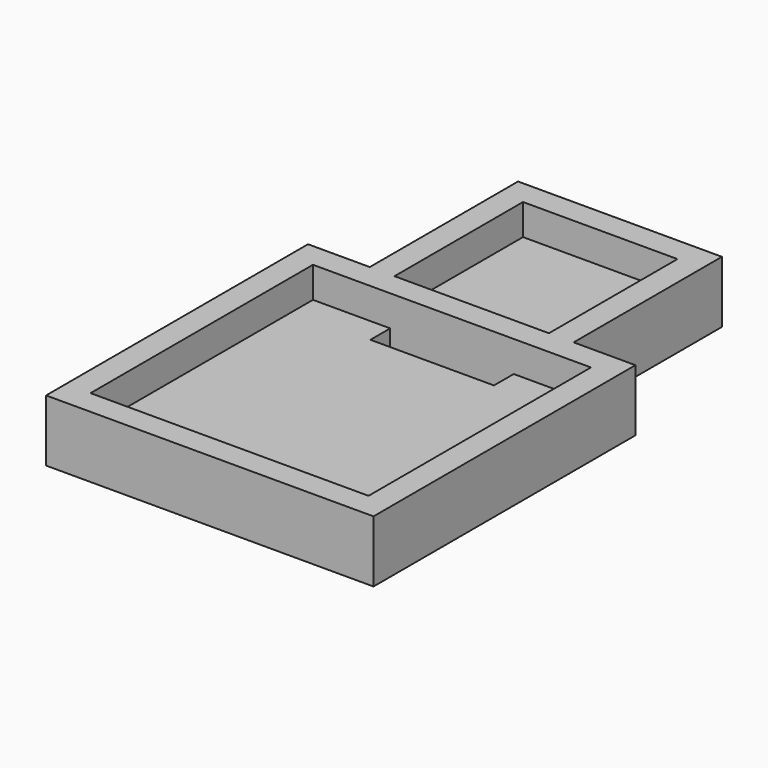
from build123d import *

# Parameters (mm, degrees)
F2_DEPTH = 3.175
F4_DEPTH = 6.35
F5_W     = 15.875
F5_H     = 2.54
F6_DEPTH = 3.175
F7_W     = 12.7
F7_H     = 2.54
F8_DEPTH = 25.4


with BuildPart() as f2:
    # F1 (on offset) → F2 (new body)
    with BuildSketch(Plane.XY):
        Polygon((-7.9375, 14.2875), (-14.2875, 14.2875), (-14.2875, -14.2875), (14.2875, -14.2875), (14.2875, 14.2875), (7.9375, 14.2875), (7.9375, 33.3375), (-7.9375, 33.3375), align=None)
    extrude(amount=F2_DEPTH)

    # F3 (on face) → F4 (join)
    with BuildSketch(Plane(origin=(0, 0, 0), x_dir=(1, 0, 0), z_dir=(0, 0, -1))):
        Polygon((16.8275, -16.8275), (16.8275, 16.8275), (-16.8275, 16.8275), (-16.8275, -16.8275), (-10.4775, -16.8275), (-10.4775, -35.8775), (10.4775, -35.8775), (10.4775, -16.8275), align=None)
        Polygon((-14.2875, 14.2875), (14.2875, 14.2875), (14.2875, -14.2875), (7.9375, -14.2875), (7.9375, -33.3375), (-7.9375, -33.3375), (-7.9375, -14.2875), (-14.2875, -14.2875), align=None, mode=Mode.SUBTRACT)
    extrude(amount=-F4_DEPTH)

    # F5 (on face) → F6 (join, through all)
    with BuildSketch(Plane.XY.offset(3.175)):
        with Locations((0, 15.5575)):
            Rectangle(F5_W, F5_H)
    extrude(amount=F6_DEPTH)

    # F7 (on face) → F8 (cut)
    with BuildSketch(Plane.XY.offset(3.175)):
        with Locations((0, 13.0175)):
            Rectangle(F7_W, F7_H)
    extrude(amount=-F8_DEPTH, mode=Mode.SUBTRACT)


solid = f2.part
